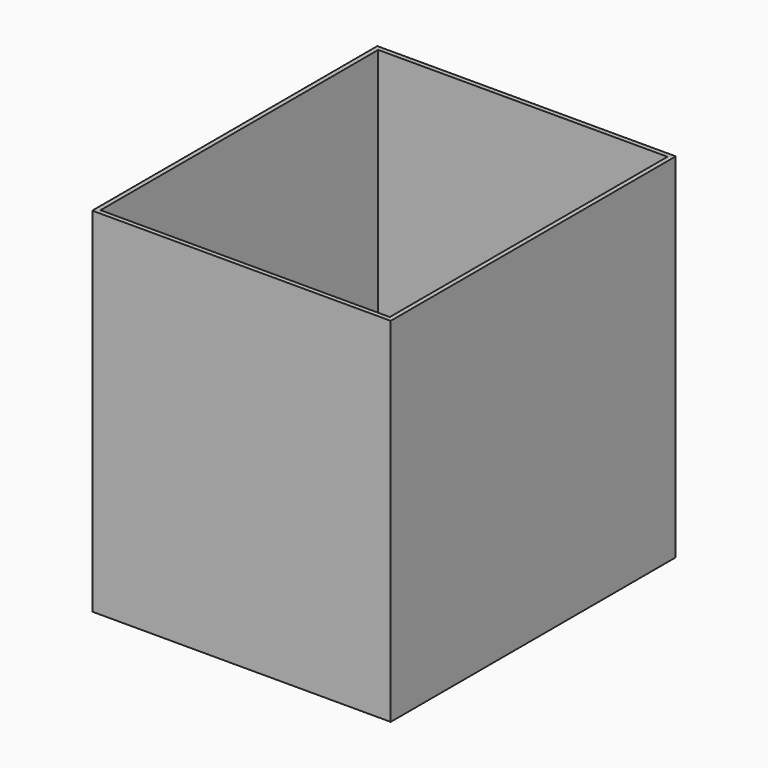
from build123d import *

# Parameters (mm, degrees)
F0_W     = 126.5
F0_H     = 151.8
F1_DEPTH = 152.4
F2_T     = 2


with BuildPart() as f1:
    # F0 (on Top) → F1 (new body)
    with BuildSketch(Plane.XY):
        Rectangle(F0_W, F0_H)
    extrude(amount=F1_DEPTH)

    # F2
    f2_openings = [f1.faces().sort_by_distance(p)[0] for p in [
        (0, 0, 152.4),
    ]]
    offset(amount=F2_T, openings=f2_openings, kind=Kind.INTERSECTION)


solid = f1.part
